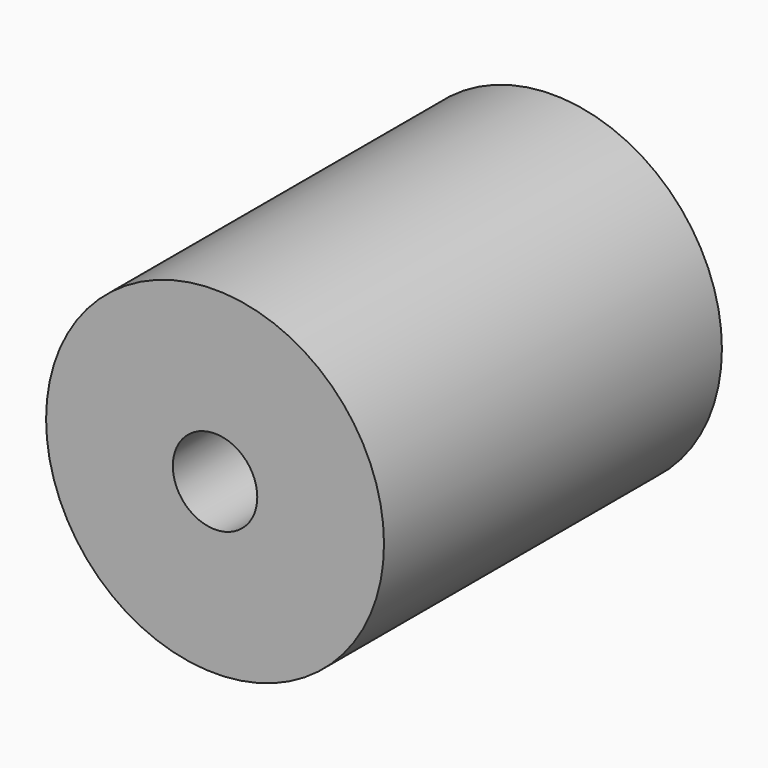
from build123d import *

# Parameters (mm, degrees)
F0_R     = 10
F1_DEPTH = 12.5
F2_R     = 2.5
F3_DEPTH = 12
F4_R     = 5
F5_DEPTH = 12


with BuildPart() as f1:
    # F0 (on Front) → F1 (new body, symmetric)
    with BuildSketch(Plane.XZ):
        Circle(F0_R)
    extrude(amount=F1_DEPTH, both=True)

    # F2 (on face) → F3 (cut)
    with BuildSketch(Plane.XZ.offset(12.5)):
        Circle(F2_R)
    extrude(amount=-F3_DEPTH, mode=Mode.SUBTRACT)

    # F4 (on face) → F5 (cut)
    with BuildSketch(Plane(origin=(0, 12.5, 0), x_dir=(-1, 0, 0), z_dir=(0, 1, 0))):
        Circle(F4_R)
    extrude(amount=-F5_DEPTH, mode=Mode.SUBTRACT)


solid = f1.part
